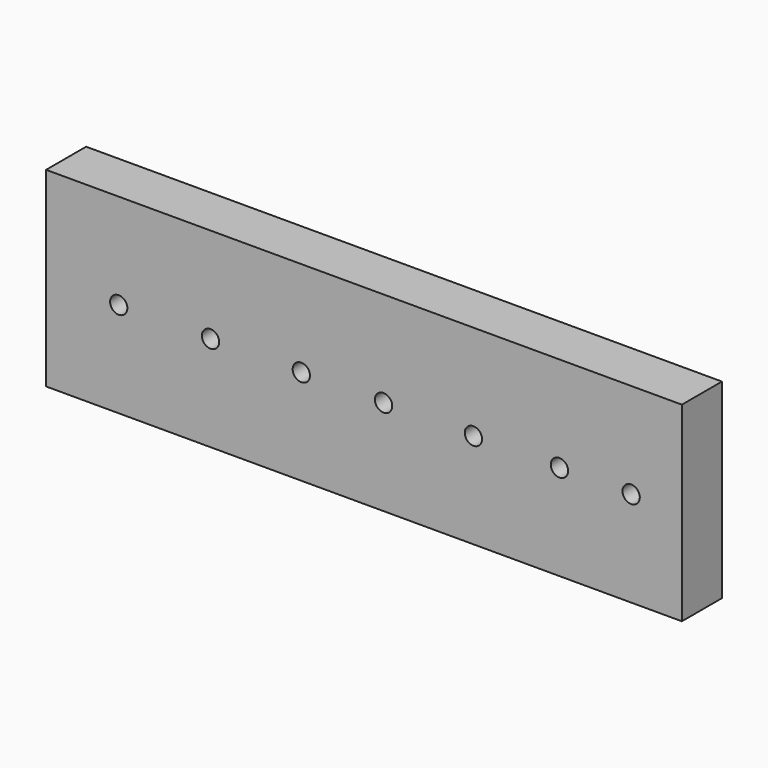
from build123d import *

# Parameters (mm, degrees)
F0_W     = 127
F0_H     = 38.1
F1_DEPTH = 10
F3_D     = 3.44678
F4_D     = 3.44932
F5_D     = 3.45186
F6_D     = 3.4544
F7_D     = 3.45694
F8_D     = 3.45948
F9_D     = 3.46202


with BuildPart() as f1:
    # F0 (on Front) → F1 (new body)
    with BuildSketch(Plane.XZ):
        with Locations((63.5, -19.05)):
            Rectangle(F0_W, F0_H)
    extrude(amount=F1_DEPTH)

    # F3 (through all)
    with Locations(Plane(origin=(0, 0, 0), x_dir=(1, 0, 0), z_dir=(0, 1, 0))):
        with Locations((14.5125538111, 19.05)):
            Hole(F3_D / 2)

    # F4 (through all)
    with Locations(Plane(origin=(0, 0, 0), x_dir=(1, 0, 0), z_dir=(0, 1, 0))):
        with Locations((32.8442007303, 19.05)):
            Hole(F4_D / 2)

    # F5 (through all)
    with Locations(Plane(origin=(0, 0, 0), x_dir=(1, 0, 0), z_dir=(0, 1, 0))):
        with Locations((85.3567272425, 19.05)):
            Hole(F5_D / 2)

    # F6 (through all)
    with Locations(Plane(origin=(0, 0, 0), x_dir=(1, 0, 0), z_dir=(0, 1, 0))):
        with Locations((116.8642491102, 19.05)):
            Hole(F6_D / 2)

    # F7 (through all)
    with Locations(Plane(origin=(0, 0, 0), x_dir=(1, 0, 0), z_dir=(0, 1, 0))):
        with Locations((50.9848929942, 19.05)):
            Hole(F7_D / 2)

    # F8 (through all)
    with Locations(Plane(origin=(0, 0, 0), x_dir=(1, 0, 0), z_dir=(0, 1, 0))):
        with Locations((67.4069970846, 19.05)):
            Hole(F8_D / 2)

    # F9 (through all)
    with Locations(Plane(origin=(0, 0, 0), x_dir=(1, 0, 0), z_dir=(0, 1, 0))):
        with Locations((102.5426462293, 19.05)):
            Hole(F9_D / 2)


solid = f1.part
